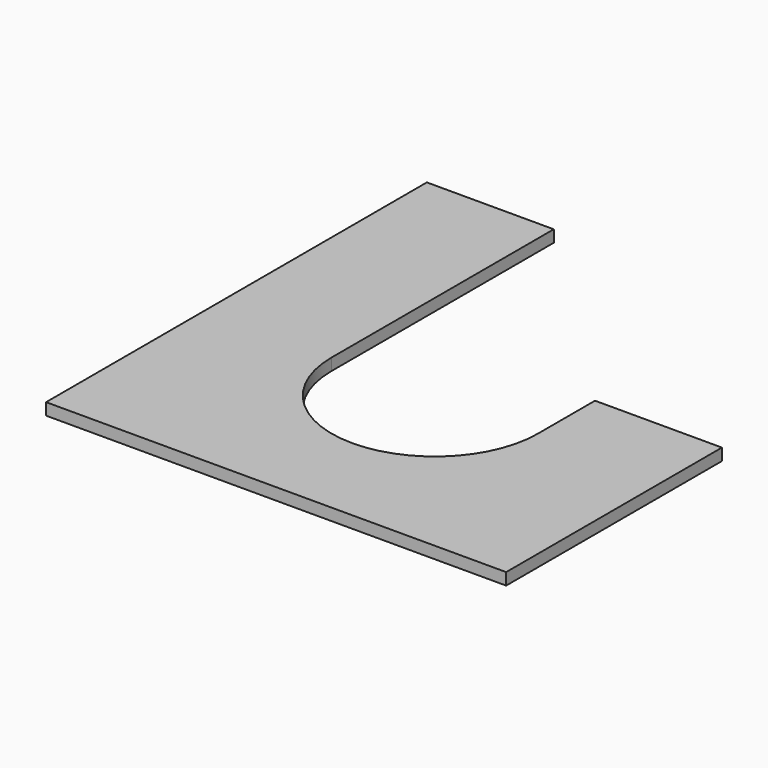
from build123d import *

# Parameters (mm, degrees)
F1_DEPTH = 38.1


with BuildPart() as f1:
    # F0 (on Top) → F1 (new body)
    with BuildSketch(Plane.XY):
        with BuildLine():
            ThreePointArc((0, -330.2), (-233.486659, -233.486659), (-330.2, 0))
            Line((-330.2, 0), (-330.2, 889))
            Line((-330.2, 889), (-736.6, 889))
            Line((-736.6, 889), (-736.6, -635))
            Line((-736.6, -635), (736.6, -635))
            Line((736.6, -635), (736.6, 228.6))
            Line((736.6, 228.6), (330.2, 228.6))
            Line((330.2, 228.6), (330.2, 0))
            ThreePointArc((330.2, 0), (233.486659, -233.486659), (0, -330.2))
        make_face()
    extrude(amount=F1_DEPTH)


solid = f1.part
